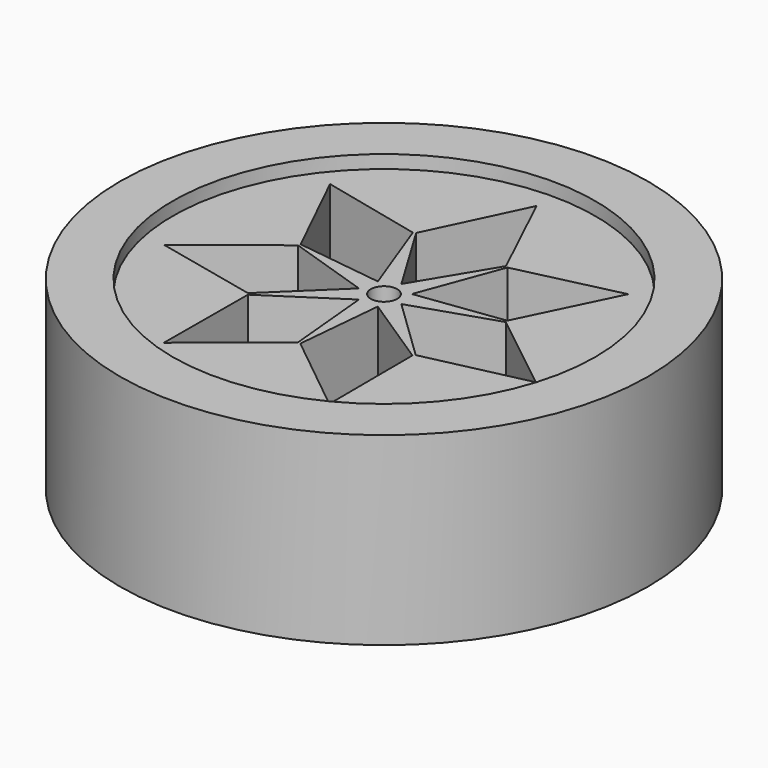
from build123d import *

# Parameters (mm, degrees)
F0_R     = 4
F0_R_2   = 0.25
F1_DEPTH = 1.5
F0_R_3   = 5
F2_DEPTH = 1.75


with BuildPart() as f1:
    # F0 (on Top) → F1 (new body, symmetric)
    with BuildSketch(Plane.XY):
        Circle(F0_R)
        Polygon((-1.566202, -3.252252), (-1.557246, -1.273849), (-0.178655, -0.370981), (-0.025008, -2.011735), align=None, mode=Mode.SUBTRACT)
        Polygon((-3.519224, -0.80324), (-1.966862, 0.423272), (-0.401434, -0.091625), (-1.58843, -1.234744), align=None, mode=Mode.SUBTRACT)
        Polygon((1.566202, -3.252252), (0.025008, -2.011735), (0.178655, -0.370981), (1.557246, -1.273849), align=None, mode=Mode.SUBTRACT)
        Polygon((3.519224, -0.80324), (1.58843, -1.234744), (0.401434, -0.091625), (1.966862, 0.423272), align=None, mode=Mode.SUBTRACT)
        Polygon((-2.822199, 2.250628), (-0.895391, 1.80166), (-0.321925, 0.256727), (-1.955732, 0.472034), align=None, mode=Mode.SUBTRACT)
        Circle(F0_R_2, mode=Mode.SUBTRACT)
        Polygon((-0.850328, 1.823361), (0, 3.609727), (0.850328, 1.823361), (0, 0.411758), align=None, mode=Mode.SUBTRACT)
        Polygon((2.822199, 2.250628), (1.955732, 0.472034), (0.321925, 0.256727), (0.895391, 1.80166), align=None, mode=Mode.SUBTRACT)
    extrude(amount=F1_DEPTH, both=True)

    # F0 (on Top) → F2 (join, symmetric)
    with BuildSketch(Plane.XY):
        Circle(F0_R_3)
        Circle(F0_R, mode=Mode.SUBTRACT)
    extrude(amount=F2_DEPTH, both=True)


solid = f1.part
